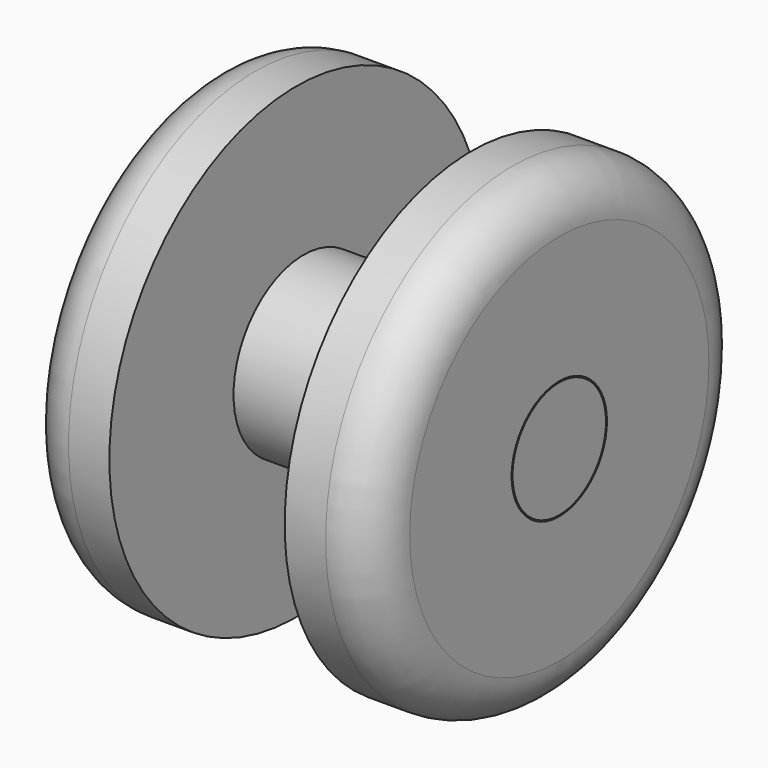
from build123d import *

# Parameters (mm, degrees)
F0_R     = 2.54
F0_R_2   = 0.9525
F1_DEPTH = 0.9525
F0_R_3   = 0.635
F2_DEPTH = 0.9525
F0_R_4   = 0.6477
F4_DEPTH = 1.905
F5_DEPTH = 0.873125
F7_R     = 0.508
F7_2_R   = 0.508


with BuildPart() as f1:
    # F0 (on Right) → F1 (new body)
    with BuildSketch(Plane.YZ):
        Circle(F0_R)
        Circle(F0_R_2, mode=Mode.SUBTRACT)
    extrude(amount=F1_DEPTH)

    # F0 (on Right) → F2, piece 2 (join)
    with BuildSketch(Plane.YZ):
        Circle(F0_R_2)
        Circle(F0_R_4, mode=Mode.SUBTRACT)
    extrude(amount=F2_DEPTH)


with BuildPart() as f2:
    # F0 (on Right) → F2 (new body)
    with BuildSketch(Plane.YZ):
        Circle(F0_R_3)
    extrude(amount=F2_DEPTH)


with BuildPart() as f1_1:
    # F3: moved
    add(f1.part.moved(Location((0.9525, 0, 0))))


with BuildPart() as f2_1:
    # F3: moved
    add(f2.part.moved(Location((0.9525, 0, 0))))

    # F0 (on Right) → F4 (join)
    with BuildSketch(Plane.YZ):
        Circle(F0_R_3)
    extrude(amount=F4_DEPTH)


with BuildPart() as f5:
    # F0 (on Right) → F5 (new body)
    with BuildSketch(Plane.YZ):
        Circle(F0_R_2)
        Circle(F0_R_4, mode=Mode.SUBTRACT)
    extrude(amount=F5_DEPTH)


with BuildPart() as f6_1:
    # F6: instance of F1
    add(f1_1.part.mirror(Plane.YZ))

    # F7#2
    f7_2_edges = [f6_1.edges().sort_by_distance(p)[0] for p in [
        (-1.905, -2.54, 0),
    ]]
    fillet(f7_2_edges, radius=F7_2_R)


with BuildPart() as f6_2:
    # F6: instance of F2
    add(f2_1.part.mirror(Plane.YZ))


with BuildPart() as f6_3:
    # F6: instance of F5
    add(f5.part.mirror(Plane.YZ))


with BuildPart() as f1_2:
    add(f1_1.part)

    # F7
    f7_edges = [f1_2.edges().sort_by_distance(p)[0] for p in [
        (1.905, -2.54, 0),
    ]]
    fillet(f7_edges, radius=F7_R)


solid = Compound([f2_1.part, f5.part, f6_1.part, f6_2.part, f6_3.part, f1_2.part])
